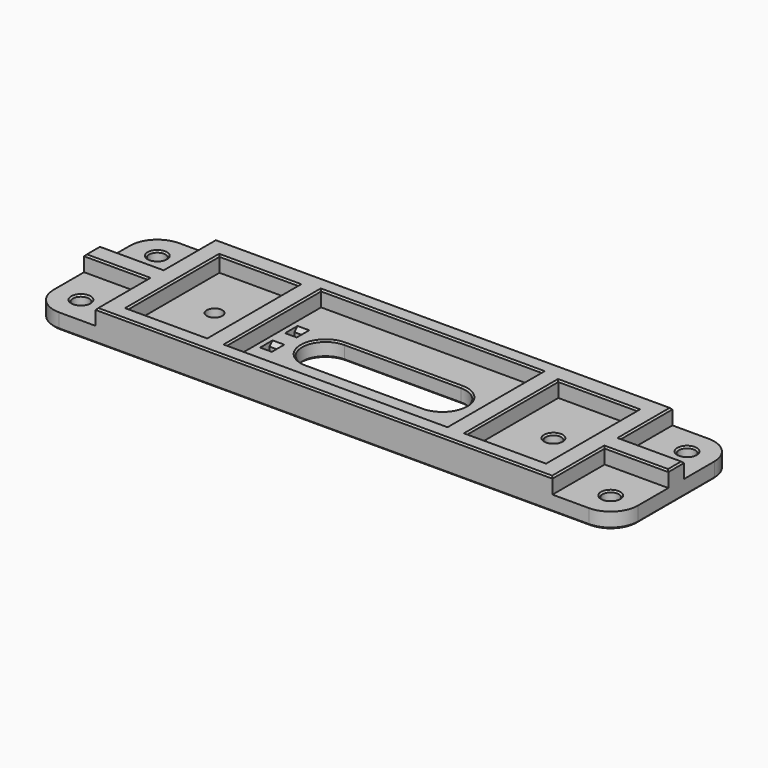
from build123d import *

# Parameters (mm, degrees)
SKETCH009_R        = 2.1
SKETCH009_R_2      = 2
PAD003_DEPTH       = 4
SKETCH010_W        = 20.3
SKETCH010_H        = 29.4
SKETCH010_W_2      = 56.7
SKETCH010_H_2      = 30.4
PAD004_DEPTH       = 4
CHAMFER003_SIZE    = 0.4
SKETCH028_W        = 3
SKETCH028_H        = 2
SKETCH028_W_2      = 3.0000000001
SKETCH028_W_3      = 3.0000000002
SKETCH028_W_4      = 3.0000000003
POCKET014_DEPTH    = 4.001
CHAMFER007003_SIZE = 0.4
CHAMFER007004_SIZE = 1


with BuildPart() as part:
    # Sketch009 → Pad003 (new body)
    with BuildSketch(Plane.XY):
        with BuildLine():
            Line((-68, 19.25), (68, 19.25))
            ThreePointArc((75, 12.25), (72.9497474683, 17.1997474683), (68, 19.25))
            Line((75, 12.25), (75, -12.25))
            ThreePointArc((68, -19.25), (72.9497474683, -17.1997474683), (75, -12.25))
            Line((-68, -19.25), (68, -19.25))
            ThreePointArc((-75, -12.25), (-72.9497474683, -17.1997474683), (-68, -19.25))
            Line((-75, 12.25), (-75, -12.25))
            ThreePointArc((-68, 19.25), (-72.9497474683, 17.1997474683), (-75, 12.25))
        make_face()
        with Locations((-68, 12.25)):
            Circle(SKETCH009_R, mode=Mode.SUBTRACT)
        with Locations((-68, -12.25)):
            Circle(SKETCH009_R, mode=Mode.SUBTRACT)
        with Locations((68, 12.25)):
            Circle(SKETCH009_R, mode=Mode.SUBTRACT)
        with Locations((68, -12.25)):
            Circle(SKETCH009_R, mode=Mode.SUBTRACT)
        with Locations((-43.5, 0)):
            Circle(SKETCH009_R_2, mode=Mode.SUBTRACT)
        with Locations((43.5, 0)):
            Circle(SKETCH009_R_2, mode=Mode.SUBTRACT)
        with BuildLine():
            ThreePointArc((-5, 5), (-10, 0), (-5, -5))
            Line((-5, -5), (5, -5))
            ThreePointArc((5, -5), (10, 0), (5, 5))
            Line((-5, 5), (5, 5))
        make_face(mode=Mode.SUBTRACT)
    extrude(amount=PAD003_DEPTH)

    # Sketch010 (on Face20 of Pad003) → Pad004 (join)
    with BuildSketch(Plane.XY.offset(4)):
        Polygon((-58.65, 19.25), (58.65, 19.25), (58.65, 2.5), (75, 2.5), (75, -2.5), (58.65, -2.5), (58.65, -19.25), (-58.65, -19.25), (-58.65, -2.5), (-75, -2.5), (-75, 2.5), (-58.65, 2.5), align=None)
        with Locations((-43.5, -0.45)):
            Rectangle(SKETCH010_W, SKETCH010_H, mode=Mode.SUBTRACT)
        with Locations((43.5, -0.45)):
            Rectangle(SKETCH010_W, SKETCH010_H, mode=Mode.SUBTRACT)
        with Locations((0, 0.05)):
            Rectangle(SKETCH010_W_2, SKETCH010_H_2, mode=Mode.SUBTRACT)
    extrude(amount=PAD004_DEPTH)

    # Chamfer003
    chamfer003_edges = [part.edges().sort_by_distance(p)[0] for p in [
        (0, 19.25, 0),
        (72.949747, 17.199747, 0),
        (75, 0, 0),
        (72.949747, -17.199747, 0),
        (0, -19.25, 0),
        (-72.949747, -17.199747, 0),
        (-75, 0, 0),
        (-72.949747, 17.199747, 0),
        (-10, 0, 0),
        (0, -5, 0),
        (10, 0, 0),
        (0, 5, 0),
        (65.9, -12.25, 0),
        (65.9, 12.25, 0),
        (-70.1, -12.25, 0),
        (-70.1, 12.25, 0),
        (41.5, 0, 0),
        (-45.5, 0, 0),
        (-58.65, 10.875, 8),
        (0, 19.25, 8),
        (58.65, 10.875, 8),
        (66.825, 2.5, 8),
        (75, 0, 8),
        (66.825, -2.5, 8),
        (58.65, -10.875, 8),
        (0, -19.25, 8),
        (-58.65, -10.875, 8),
        (-66.825, -2.5, 8),
        (-75, 0, 8),
        (-66.825, 2.5, 8),
        (-28.35, 0.05, 8),
        (0, -15.15, 8),
        (28.35, 0.05, 8),
        (0, 15.25, 8),
        (33.35, -0.45, 8),
        (43.5, -15.15, 8),
        (53.65, -0.45, 8),
        (43.5, 14.25, 8),
        (-53.65, -0.45, 8),
        (-43.5, -15.15, 8),
        (-33.35, -0.45, 8),
        (-43.5, 14.25, 8),
        (-70.1, -12.25, 4),
        (-10, 0, 4),
        (0, 5, 4),
        (10, 0, 4),
        (0, -5, 4),
        (41.5, 0, 4),
        (65.9, -12.25, 4),
        (65.9, 12.25, 4),
        (-70.1, 12.25, 4),
    ]]
    chamfer(chamfer003_edges, length=CHAMFER003_SIZE)

    # Sketch028 (on Face97 of Chamfer003) → Pocket014 (cut, through all)
    with BuildSketch(Plane.XY.offset(4)):
        with BuildLine():
            ThreePointArc((-15, 6), (-21, 0), (-15, -6))
            Line((-15, -6), (15, -6))
            ThreePointArc((15, -6), (21, 0), (15, 6))
            Line((-15, 6), (15, 6))
        make_face()
        with Locations((-25.5, 4)):
            Rectangle(SKETCH028_W, SKETCH028_H)
        with Locations((-25.5, -4)):
            Rectangle(SKETCH028_W_2, SKETCH028_H)
        with Locations((25.5000000001, 4)):
            Rectangle(SKETCH028_W_3, SKETCH028_H)
        with Locations((25.5000000001, -4)):
            Rectangle(SKETCH028_W_4, SKETCH028_H)
    extrude(amount=-POCKET014_DEPTH, mode=Mode.SUBTRACT)

    # Chamfer007003
    chamfer007003_edges = [part.edges().sort_by_distance(p)[0] for p in [
        (0, -6, 4),
        (0, -6, 0),
    ]]
    chamfer(chamfer007003_edges, length=CHAMFER007003_SIZE)

    # Chamfer007004
    chamfer007004_edges = [part.edges().sort_by_distance(p)[0] for p in [
        (25.5, -5, 4),
        (25.5, -3, 4),
        (25.5, 3, 4),
        (25.5, 5, 4),
        (-25.5, -5, 4),
        (-25.5, -3, 4),
        (-25.5, 3, 4),
        (-25.5, 5, 4),
        (25.5, -5, 0),
        (25.5, -3, 0),
        (25.5, 3, 0),
        (25.5, 5, 0),
        (-25.5, -5, 0),
        (-25.5, -3, 0),
        (-25.5, 3, 0),
        (-25.5, 5, 0),
    ]]
    chamfer(chamfer007004_edges, length=CHAMFER007004_SIZE)


solid = part.part
